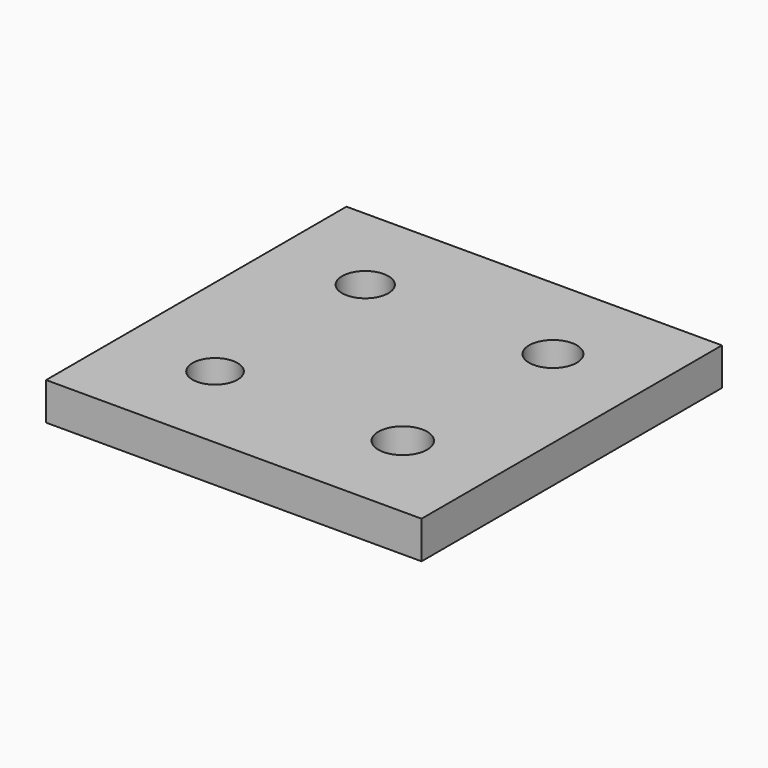
from build123d import *

# Parameters (mm, degrees)
F0_W     = 30
F0_H     = 30
F2_DEPTH = 3
F3_R     = 1.8
F3_R_2   = 1.95
F3_R_3   = 1.85
F3_R_4   = 1.9
F4_DEPTH = 3


with BuildPart() as f2:
    # F0 (on Top) → F2 (new body)
    with BuildSketch(Plane.XY):
        Rectangle(F0_W, F0_H)
    extrude(amount=F2_DEPTH)

    # F3 (on face) → F4 (cut)
    with BuildSketch(Plane.XY.offset(3)):
        with Locations((-7.5, -7.5)):
            Circle(F3_R)
        with Locations((7.5, -7.5)):
            Circle(F3_R_2)
        with Locations((-7.5, 7.5)):
            Circle(F3_R_3)
        with Locations((7.5, 7.5)):
            Circle(F3_R_4)
    extrude(amount=-F4_DEPTH, mode=Mode.SUBTRACT)


solid = f2.part
